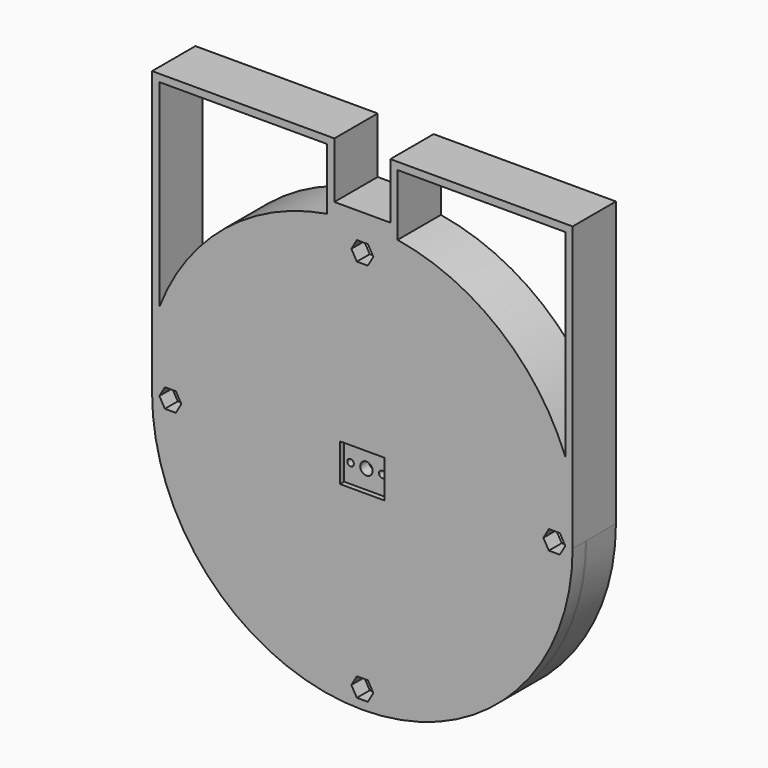
from build123d import *

# Parameters (mm, degrees)
SKETCH089_R     = 57.5
SKETCH089_R_2   = 50.2
PAD030_DEPTH    = 10
SKETCH090_R     = 57.5
SKETCH090_R_2   = 52.7
PAD031_DEPTH    = 10
SKETCH091_R     = 55.2
SKETCH091_R_2   = 45.630592
POCKET047_DEPTH = 10.001
SKETCH092_R     = 55.2
SKETCH092_R_2   = 52.7
PAD032_DEPTH    = 2.6
SKETCH093_R     = 57.5
SKETCH093_R_2   = 52.7
PAD033_DEPTH    = 0.4
SKETCH094_R     = 1.75
POCKET048_DEPTH = 5
SKETCH095_R     = 57.5
PAD034_DEPTH    = 4.4
SKETCH096_W     = 12.18
SKETCH096_H     = 10.29
POCKET049_DEPTH = 1.4
SKETCH097_R     = 1.7
POCKET050_DEPTH = 14.801
SKETCH098_R     = 0.9
POCKET051_DEPTH = 14.801
SKETCH099_R     = 1.55
POCKET052_DEPTH = 1
PAD035_DEPTH    = 14.8


with BuildPart() as part:
    # Sketch089 (on DatumPlane) → Pad030 (new body)
    with BuildSketch(Plane.XZ.offset(10)):
        Circle(SKETCH089_R)
        Circle(SKETCH089_R_2, mode=Mode.SUBTRACT)
    extrude(amount=-PAD030_DEPTH)

    # Sketch090 (on DatumPlane) → Pad031 (new body)
    with BuildSketch(Plane.XZ.offset(10)):
        Circle(SKETCH090_R)
        Circle(SKETCH090_R_2, mode=Mode.SUBTRACT)
    extrude(amount=-PAD031_DEPTH)

    # Sketch091 (on Face4 of PolarPattern010) → Pocket047 (cut, through all)
    with BuildSketch(Plane.XZ.offset(10)):
        Circle(SKETCH091_R)
        Circle(SKETCH091_R_2, mode=Mode.SUBTRACT)
    extrude(amount=-POCKET047_DEPTH, mode=Mode.SUBTRACT)

    # Sketch092 (on Face2 of Pocket047) → Pad032 (new body)
    with BuildSketch(Plane.XZ.offset(10)):
        Circle(SKETCH092_R)
        Circle(SKETCH092_R_2, mode=Mode.SUBTRACT)
    extrude(amount=-PAD032_DEPTH)

    # Sketch093 (on Face6 of Pad032) → Pad033 (new body)
    with BuildSketch(Plane.XZ.offset(10)):
        Circle(SKETCH093_R)
        Circle(SKETCH093_R_2, mode=Mode.SUBTRACT)
    extrude(amount=PAD033_DEPTH)

    # Sketch094 (on Face5 of Pad033) → Pocket048 (cut)
    with BuildSketch(Plane.XZ.offset(10.4)):
        with Locations((0, -52.5)):
            Circle(SKETCH094_R)
        with Locations((-52.5, 0)):
            Circle(SKETCH094_R)
        with Locations((0, 52.5)):
            Circle(SKETCH094_R)
        with Locations((52.5, 0)):
            Circle(SKETCH094_R)
    extrude(amount=-POCKET048_DEPTH, mode=Mode.SUBTRACT)

    # Sketch095 (on Face4 of Pocket048) → Pad034 (new body)
    with BuildSketch(Plane.XZ.offset(10.4)):
        Circle(SKETCH095_R)
        Polygon((3, -52.5), (1.5, -49.901924), (-1.5, -49.901924), (-3, -52.5), (-1.5, -55.098076), (1.5, -55.098076), align=None, mode=Mode.SUBTRACT)
        Polygon((3, 52.5), (1.5, 55.098076), (-1.5, 55.098076), (-3, 52.5), (-1.5, 49.901924), (1.5, 49.901924), align=None, mode=Mode.SUBTRACT)
        Polygon((-49.5, 0), (-51, 2.598076), (-54, 2.598076), (-55.5, 0), (-54, -2.598076), (-51, -2.598076), align=None, mode=Mode.SUBTRACT)
        Polygon((55.5, 0), (54, 2.598076), (51, 2.598076), (49.5, 0), (51, -2.598076), (54, -2.598076), align=None, mode=Mode.SUBTRACT)
    extrude(amount=PAD034_DEPTH)

    # Sketch096 (on Face13 of Pad034) → Pocket049 (cut)
    with BuildSketch(Plane.XZ.offset(14.8)):
        Rectangle(SKETCH096_W, SKETCH096_H)
    extrude(amount=-POCKET049_DEPTH, mode=Mode.SUBTRACT)

    # Sketch097 (on Face4 of Pocket049) → Pocket050 (cut, through all)
    with BuildSketch(Plane.XZ.offset(14.8)):
        Circle(SKETCH097_R)
    extrude(amount=-POCKET050_DEPTH, mode=Mode.SUBTRACT)

    # Sketch098 (on Face4 of Pocket050) → Pocket051 (cut, through all)
    with BuildSketch(Plane.XZ.offset(14.8)):
        with Locations((-4.35, 0)):
            Circle(SKETCH098_R)
        with Locations((4.35, 0)):
            Circle(SKETCH098_R)
    extrude(amount=-POCKET051_DEPTH, mode=Mode.SUBTRACT)

    # Sketch099 (on Face42 of Pocket051) → Pocket052 (cut)
    with BuildSketch(Plane(origin=(0, -10.4, 0), x_dir=(1, 0, 0), z_dir=(0, 1, 0))):
        with Locations((-4.35, 0)):
            Circle(SKETCH099_R)
        with Locations((4.35, 0)):
            Circle(SKETCH099_R)
    extrude(amount=-POCKET052_DEPTH, mode=Mode.SUBTRACT)

    # Sketch100 (on Face1 of Pocket052) → Pad035 (new body)
    with BuildSketch(Plane(origin=(0, 0, 0), x_dir=(1, 0, 0), z_dir=(0, 1, 0))):
        with BuildLine():
            Line((-7.65, -62.26), (7.65, -62.26))
            Line((7.65, -62.26), (7.65, -77.56))
            Line((7.65, -77.56), (57.5, -77.56))
            Line((57.5, 0), (57.5, -77.56))
            ThreePointArc((-57.5, 0), (0, -57.5), (57.5, 0))
            Line((-57.5, 0), (-57.5, -77.56))
            Line((-57.5, -77.56), (-7.65, -77.56))
            Line((-7.65, -62.26), (-7.65, -77.56))
        make_face()
        with BuildLine():
            Line((9.640661, -58.760865), (9.65, -75.56))
            Line((9.65, -75.56), (55.5, -75.56))
            Line((55.500076, -21.447651), (55.5, -75.56))
            ThreePointArc((9.640661, -58.760865), (37.533805, -46.204517), (55.500076, -21.447651))
        make_face(mode=Mode.SUBTRACT)
        with BuildLine():
            Line((-9.65, -75.56), (-55.5, -75.56))
            Line((-55.500076, -21.447651), (-55.5, -75.56))
            ThreePointArc((-55.500076, -21.447651), (-37.533805, -46.204517), (-9.640661, -58.760865))
            Line((-9.640661, -58.760865), (-9.65, -75.56))
        make_face(mode=Mode.SUBTRACT)
    extrude(amount=-PAD035_DEPTH)


solid = part.part
